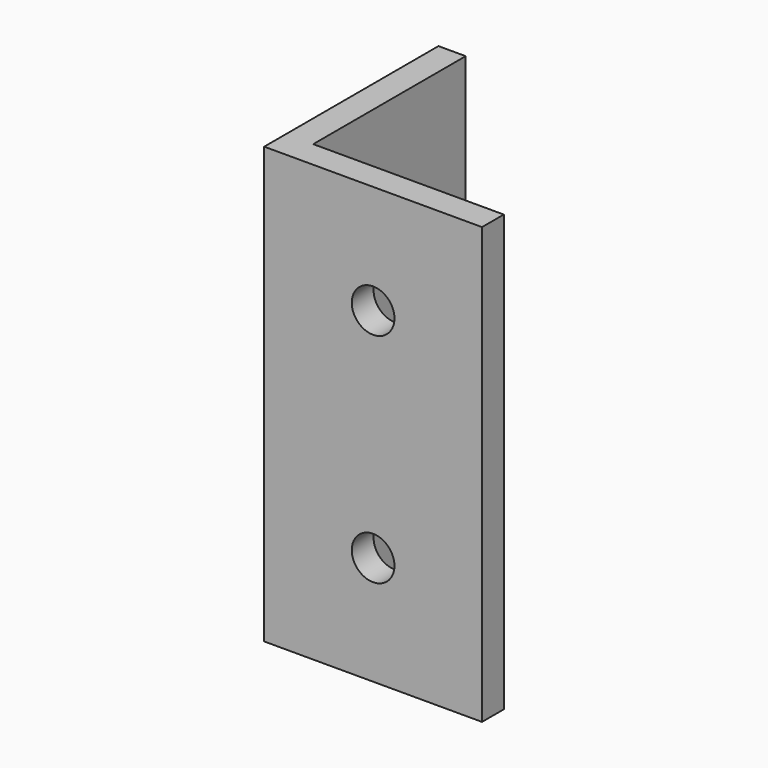
from build123d import *

# Parameters (mm, degrees)
F1_DEPTH = 50.8
F2_R     = 2.4892
F3_DEPTH = 25.4
F4_R     = 3.175
F5_DEPTH = 25.4


with BuildPart() as f1:
    # F0 (on Top) → F1 (new body)
    with BuildSketch(Plane.XY):
        Polygon((3.175, 25.4), (0, 25.4), (0, 0), (25.4, 0), (25.4, 3.175), (3.175, 3.175), align=None)
    extrude(amount=F1_DEPTH)

    # F2 (on face) → F3 (cut)
    with BuildSketch(Plane.XZ):
        with Locations((12.7, 38.1)):
            Circle(F2_R)
        with Locations((12.7, 12.7)):
            Circle(F2_R)
    extrude(amount=-F3_DEPTH, mode=Mode.SUBTRACT)

    # F4 (on face) → F5 (cut)
    with BuildSketch(Plane(origin=(0, 0, 0), x_dir=(0, -1, 0), z_dir=(-1, 0, 0))):
        with Locations((-6.35, 25.4)):
            Circle(F4_R)
    extrude(amount=-F5_DEPTH, mode=Mode.SUBTRACT)


solid = f1.part
